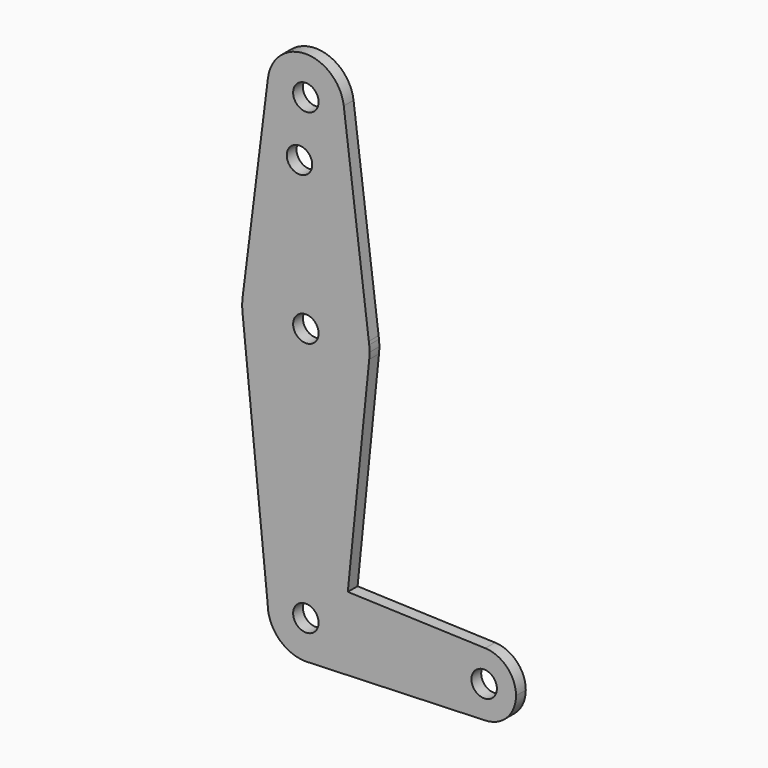
from build123d import *

# Parameters (mm, degrees)
F0_R     = 3.175
F1_DEPTH = 3.048


with BuildPart() as f1:
    # F0 (on Front) → F1 (new body)
    with BuildSketch(Plane.XZ):
        with BuildLine():
            ThreePointArc((-9.4504036385, 115.4897462203), (-0.5960412498, 104.7936673828), (9.525, 114.3))
            ThreePointArc((9.525, 114.3), (9.5063326172, 114.8960412498), (9.4504036385, 115.4897462203))
            ThreePointArc((9.4504036385, 115.4897462203), (0, 123.825), (-9.4504036385, 115.4897462203))
        make_face()
        with Locations((0, 114.3)):
            Circle(F0_R, mode=Mode.SUBTRACT)
        with BuildLine():
            ThreePointArc((9.4504036385, 115.4897462203), (9.5063326172, 114.8960412498), (9.525, 114.3))
            ThreePointArc((9.525, 114.3), (-0.5960412498, 104.7936673828), (-9.4504036385, 115.4897462203))
            Line((-9.4504036385, 115.4897462203), (-15.6978424192, 65.8650303134))
            ThreePointArc((-15.6978424192, 65.8650303134), (0, 79.375), (15.6978424192, 65.8650303134))
            Line((15.6978424192, 65.8650303134), (9.4504036385, 115.4897462203))
        make_face()
        with Locations((-1.5875, 100.0252)):
            Circle(F0_R, mode=Mode.SUBTRACT)
        with BuildLine():
            Line((15.7942028036, 65.0996195795), (15.6978424192, 65.8650303134))
            ThreePointArc((15.6978424192, 65.8650303134), (0, 79.375), (-15.6978424192, 65.8650303134))
            Line((-15.6978424192, 65.8650303134), (-15.7942028036, 65.0996195795))
            ThreePointArc((-15.7942028036, 65.0996195795), (-15.875, 63.5), (-15.7942028036, 61.9003804205))
            ThreePointArc((-15.7942028036, 61.9003804205), (0, 47.625), (15.7942028036, 61.9003804205))
            ThreePointArc((15.7942028036, 61.9003804205), (15.8547878338, 62.6991705884), (15.875, 63.5))
            ThreePointArc((15.875, 63.5), (15.8547878338, 64.3008294116), (15.7942028036, 65.0996195795))
        make_face()
        with Locations((0, 63.5)):
            Circle(F0_R, mode=Mode.SUBTRACT)
        with BuildLine():
            ThreePointArc((15.7942028036, 65.0996195795), (15.7506727309, 65.4829103672), (15.6978424192, 65.8650303134))
            Line((15.6978424192, 65.8650303134), (15.7942028036, 65.0996195795))
        make_face()
        with BuildLine():
            Line((-15.7942028036, 65.0996195795), (-15.6978424192, 65.8650303134))
            ThreePointArc((-15.6978424192, 65.8650303134), (-15.7506727309, 65.4829103672), (-15.7942028036, 65.0996195795))
        make_face()
        with BuildLine():
            ThreePointArc((15.7942028036, 61.9003804205), (0, 47.625), (-15.7942028036, 61.9003804205))
            Line((-15.7942028036, 61.9003804205), (-9.525, 0))
            ThreePointArc((-9.525, 0), (-6.7351920908, 6.7351920908), (0, 9.525))
            ThreePointArc((0, 9.525), (0.3388863295, 9.5189695375), (0.6773435479, 9.500885786))
            Line((0.6773435479, 9.500885786), (10.4519953809, 9.152896871))
            Line((10.4519953809, 9.152896871), (15.7942028036, 61.9003804205))
        make_face()
        with BuildLine():
            ThreePointArc((0, 9.525), (-6.7351920908, 6.7351920908), (-9.525, 0))
            ThreePointArc((-9.525, 0), (-6.7351920908, -6.7351920908), (0, -9.525))
            Line((0, -9.525), (0.6773435479, -9.500885786))
            ThreePointArc((0.6773435479, -9.500885786), (6.9705567315, -6.4912990883), (9.525, 0))
            ThreePointArc((9.525, 0), (6.9705567315, 6.4912990883), (0.6773435479, 9.500885786))
            Line((0.6773435479, 9.500885786), (0, 9.525))
        make_face()
        Circle(F0_R, mode=Mode.SUBTRACT)
        with BuildLine():
            Line((44.7324052746, 7.9324746146), (10.4519953809, 9.152896871))
            Line((10.4519953809, 9.152896871), (9.525, 0))
            ThreePointArc((9.525, 0), (6.9705567315, -6.4912990883), (0.6773435479, -9.500885786))
            Line((0.6773435479, -9.500885786), (44.7324052746, -7.9324746146))
            ThreePointArc((44.7324052746, -7.9324746146), (36.5125, 0), (44.7324052746, 7.9324746146))
        make_face()
        with BuildLine():
            Line((9.525, 0), (10.4519953809, 9.152896871))
            Line((10.4519953809, 9.152896871), (0.6773435479, 9.500885786))
            ThreePointArc((0.6773435479, 9.500885786), (6.9705567315, 6.4912990883), (9.525, 0))
        make_face()
        with BuildLine():
            Line((0.6773435479, -9.500885786), (0, -9.525))
            ThreePointArc((0, -9.525), (0.3388863295, -9.5189695375), (0.6773435479, -9.500885786))
        make_face()
        with BuildLine():
            ThreePointArc((52.3875, 0), (50.1616327839, 5.5119104847), (44.7324052746, 7.9324746146))
            ThreePointArc((44.7324052746, 7.9324746146), (36.5125, 0), (44.7324052746, -7.9324746146))
            ThreePointArc((44.7324052746, -7.9324746146), (50.1616327839, -5.5119104847), (52.3875, 0))
        make_face()
        with Locations((44.45, 0)):
            Circle(F0_R, mode=Mode.SUBTRACT)
    extrude(amount=F1_DEPTH)


solid = f1.part
